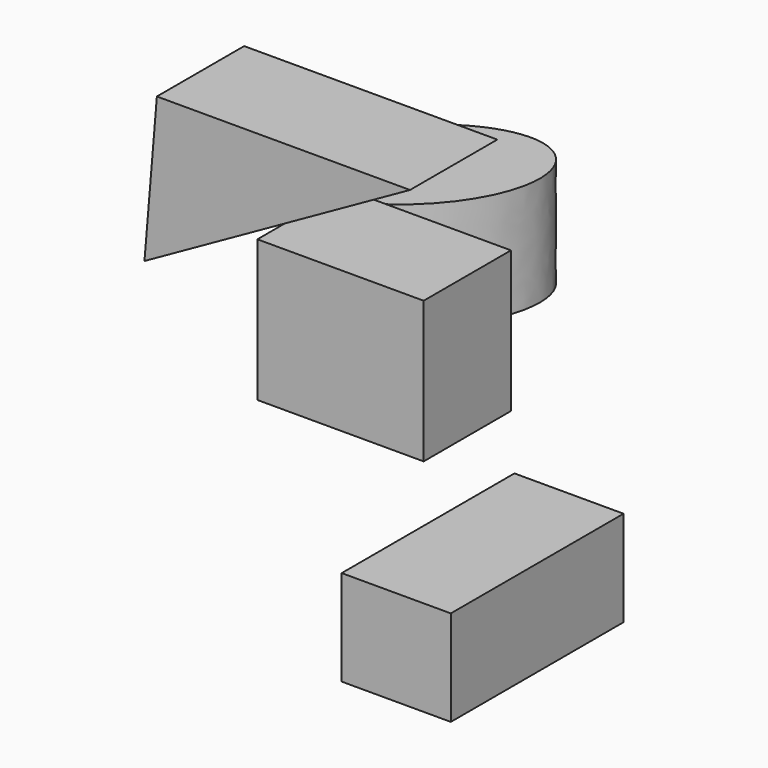
from build123d import *

# Parameters (mm, degrees)
F0_W     = 38.705198
F0_H     = 32.928304
F2_DEPTH = 25.4
F3_DEPTH = 25.4
F4_W     = 50.258988
F4_H     = 22.241049
F5_DEPTH = 25.4
F7_DEPTH = 25.4


with BuildPart() as f2:
    # F0 (on Front) → F2 (new body)
    with BuildSketch(Plane.XZ):
        with Locations((-23.396426, 22.38547)):
            Rectangle(F0_W, F0_H)
    extrude(amount=F2_DEPTH)


with BuildPart() as f3:
    # F1 (on Front) → F3 (new body)
    with BuildSketch(Plane.XZ):
        Polygon((-66.14545, 60.512979), (-69.033898, 25.851605), (-7.221117, 60.512979), align=None)
    extrude(amount=F3_DEPTH)


with BuildPart() as f5:
    # F4 (on Right) → F5 (new body)
    with BuildSketch(Plane.YZ):
        with Locations((-29.173321, -15.019928)):
            Rectangle(F4_W, F4_H)
    extrude(amount=F5_DEPTH)


with BuildPart() as f7:
    # F6 (on Top) → F7 (new body)
    with BuildSketch(Plane.XY):
        with BuildLine():
            add(Edge.make_bspline(
                [(-36.972132, 54.158397), (-56.336354, 72.907875), (-73.083534, 36.237301), (-89.830715, -0.433274), (-53.719312, 17.487823), (-17.60791, 35.408919), (-36.972132, 54.158397)],
                knots=[0, 0, 0, 2.094395, 2.094395, 4.18879, 4.18879, 6.283185, 6.283185, 6.283185], degree=2, weights=[1, 0.5, 1, 0.5, 1, 0.5, 1]))
        make_face()
    extrude(amount=F7_DEPTH)


solid = Compound([f2.part, f3.part, f5.part, f7.part])
